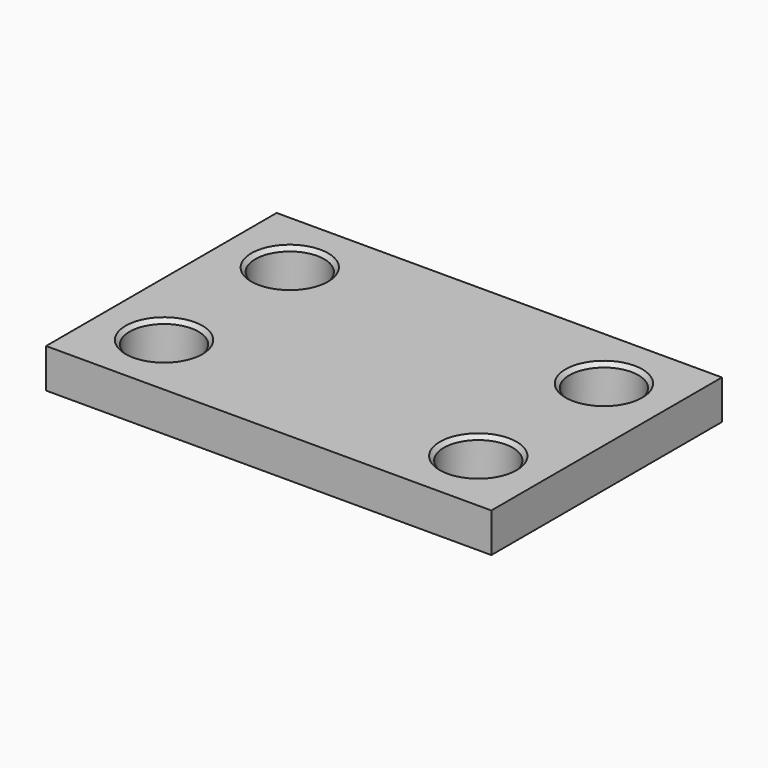
from build123d import *

# Parameters (mm, degrees)
SKETCH_W        = 113.3828
SKETCH_H        = 73.3828
SKETCH_R        = 8.784219
PAD_DEPTH       = 10
CHAMFER_SIZE    = 1
CHAMFER001_SIZE = 1
CHAMFER002_SIZE = 1
CHAMFER003_SIZE = 1


with BuildPart() as part:
    # Sketch → Pad (new body)
    with BuildSketch(Plane.XY):
        Rectangle(SKETCH_W, SKETCH_H)
        with Locations((-40, 20)):
            Circle(SKETCH_R, mode=Mode.SUBTRACT)
        with Locations((-40, -20)):
            Circle(SKETCH_R, mode=Mode.SUBTRACT)
        with Locations((40, -20)):
            Circle(SKETCH_R, mode=Mode.SUBTRACT)
        with Locations((40, 20)):
            Circle(SKETCH_R, mode=Mode.SUBTRACT)
    extrude(amount=PAD_DEPTH)

    # Chamfer
    chamfer_edges = [part.edges().sort_by_distance(p)[0] for p in [
        (31.215781, 20, 10),
    ]]
    chamfer(chamfer_edges, length=CHAMFER_SIZE)

    # Chamfer001
    chamfer001_edges = [part.edges().sort_by_distance(p)[0] for p in [
        (31.215781, -20, 10),
    ]]
    chamfer(chamfer001_edges, length=CHAMFER001_SIZE)

    # Chamfer002
    chamfer002_edges = [part.edges().sort_by_distance(p)[0] for p in [
        (-48.784219, 20, 10),
    ]]
    chamfer(chamfer002_edges, length=CHAMFER002_SIZE)

    # Chamfer003
    chamfer003_edges = [part.edges().sort_by_distance(p)[0] for p in [
        (-48.784219, -20, 10),
    ]]
    chamfer(chamfer003_edges, length=CHAMFER003_SIZE)


solid = part.part
